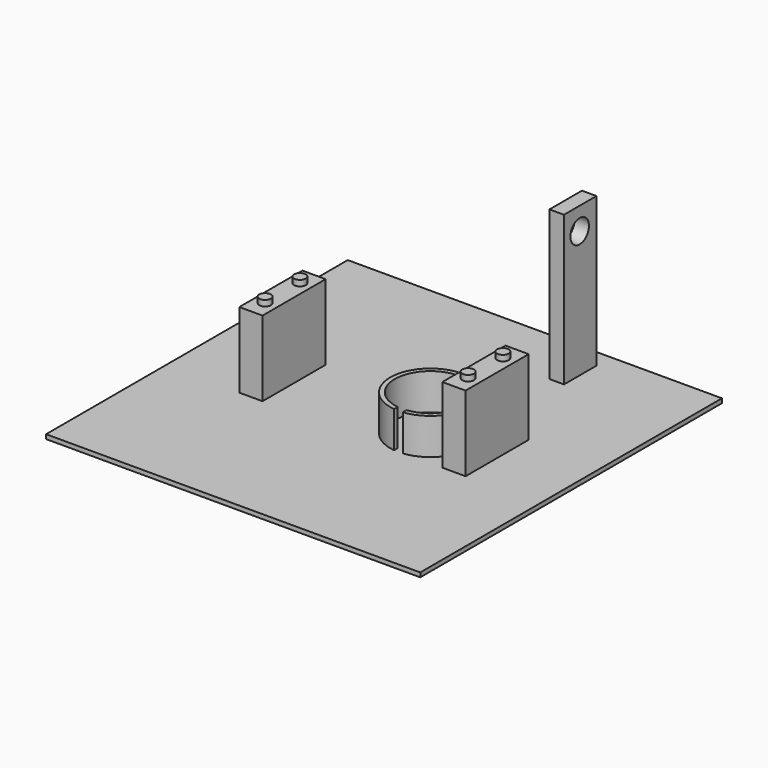
from build123d import *

# Parameters (mm, degrees)
SKETCH_W        = 129
SKETCH_H        = 130
PAD_DEPTH       = 1.5
SKETCH001_R     = 13.85
PAD001_DEPTH    = 12.5
SKETCH002_R     = 12.3
POCKET_DEPTH    = 12.5
SKETCH003_W     = 3
SKETCH003_H     = 3.5
POCKET001_DEPTH = 12.5
SKETCH004_W     = 8
SKETCH004_H     = 27.2
PAD002_DEPTH    = 26
SKETCH005_R     = 2
PAD003_DEPTH    = 2
SKETCH006_W     = 5
SKETCH006_H     = 14
PAD004_DEPTH    = 51.5
SKETCH007_R     = 4
POCKET002_DEPTH = 5


with BuildPart() as part:
    # Sketch → Pad (new body)
    with BuildSketch(Plane.XY):
        Rectangle(SKETCH_W, SKETCH_H)
    extrude(amount=PAD_DEPTH)

    # Sketch001 (on Face6 of Pad) → Pad001 (join)
    with BuildSketch(Plane.XY.offset(1.5)):
        with Locations((16, 0)):
            Circle(SKETCH001_R)
    extrude(amount=PAD001_DEPTH)

    # Sketch002 (on Face8 of Pad001) → Pocket (cut)
    with BuildSketch(Plane.XY.offset(14)):
        with Locations((16, 0)):
            Circle(SKETCH002_R)
    extrude(amount=-POCKET_DEPTH, mode=Mode.SUBTRACT)

    # Sketch003 (on Face8 of Pocket) → Pocket001 (cut)
    with BuildSketch(Plane.XY.offset(14)):
        with Locations((16, -12.75)):
            Rectangle(SKETCH003_W, SKETCH003_H)
    extrude(amount=-POCKET001_DEPTH, mode=Mode.SUBTRACT)

    # Sketch004 (on Face5 of Pocket001) → Pad002 (join)
    with BuildSketch(Plane.XY.offset(1.5)):
        with Locations((35, 0)):
            Rectangle(SKETCH004_W, SKETCH004_H)
        with Locations((-35, 0)):
            Rectangle(SKETCH004_W, SKETCH004_H)
    extrude(amount=PAD002_DEPTH)

    # Sketch005 (on Face23 of Pad002) → Pad003 (join)
    with BuildSketch(Plane.XY.offset(27.5)):
        with Locations((35, 7.5)):
            Circle(SKETCH005_R)
        with Locations((35, -7.5)):
            Circle(SKETCH005_R)
        with Locations((-35, 7.5)):
            Circle(SKETCH005_R)
        with Locations((-35, -7.5)):
            Circle(SKETCH005_R)
    extrude(amount=PAD003_DEPTH)

    # Sketch006 (on Face5 of Pad003) → Pad004 (join)
    with BuildSketch(Plane.XY.offset(1.5)):
        with Locations((23.75, 51.75)):
            Rectangle(SKETCH006_W, SKETCH006_H)
    extrude(amount=PAD004_DEPTH)

    # Sketch007 (on Face15 of Pad004) → Pocket002 (cut)
    with BuildSketch(Plane.YZ.offset(26.25)):
        with Locations((51.511597, 45.262314)):
            Circle(SKETCH007_R)
    extrude(amount=-POCKET002_DEPTH, mode=Mode.SUBTRACT)


solid = part.part
